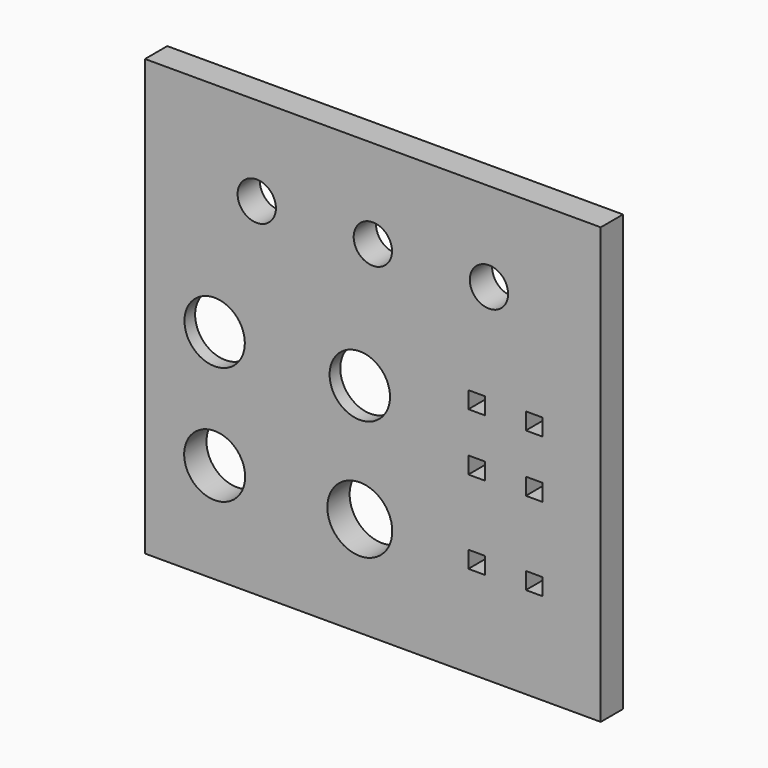
from build123d import *

# Parameters (mm, degrees)
F0_W     = 78.5
F0_H     = 75
F1_DEPTH = 4.8
F2_R     = 5.2
F2_R_2   = 5.25
F2_R_3   = 5.59
F2_R_4   = 3.3
F2_W     = 2.9
F2_H     = 2.9
F3_DEPTH = 4.801
F4_R     = 10
F5_DEPTH = 2.5
F6_R     = 2


with BuildPart() as f1:
    # F0 (on Front) → F1 (new body)
    with BuildSketch(Plane.XZ):
        Rectangle(F0_W, F0_H)
    extrude(amount=F1_DEPTH)

    # F2 (on face) → F3 (cut, through all)
    with BuildSketch(Plane.XZ.offset(4.8)):
        with Locations((-27.25, 0)):
            Circle(F2_R)
        with Locations((-27.25, -20.25)):
            Circle(F2_R_2)
        with Locations((-2.25, -20.25)):
            Circle(F2_R_3)
        with Locations((-2.25, 0)):
            Circle(F2_R)
        with Locations((0, 22.2)):
            Circle(F2_R_4)
        with Locations((-20, 22.2)):
            Circle(F2_R_4)
        with Locations((20, 22.2)):
            Circle(F2_R_4)
        with Locations((17.9, 3.948761)):
            Rectangle(F2_W, F2_H)
        with Locations((27.8, 3.948761)):
            Rectangle(F2_W, F2_H)
        with Locations((17.9, -5.951239)):
            Rectangle(F2_W, F2_H)
        with Locations((27.8, -5.951239)):
            Rectangle(F2_W, F2_H)
        with Locations((17.9, -20.25)):
            Rectangle(F2_W, F2_H)
        with Locations((27.8, -20.25)):
            Rectangle(F2_W, F2_H)
    extrude(amount=-F3_DEPTH, mode=Mode.SUBTRACT)

    # F4 (on face) → F5 (cut)
    with BuildSketch(Plane(origin=(0, 0, 0), x_dir=(-1, 0, 0), z_dir=(0, 1, 0))):
        with Locations((2.25, 0)):
            Circle(F4_R)
        with Locations((27.25, 0)):
            Circle(F4_R)
    extrude(amount=-F5_DEPTH, mode=Mode.SUBTRACT)

    # F6
    f6_edges = [f1.edges().sort_by_distance(p)[0] for p in [
        (7.75, -2.5, 0),
        (-17.25, -2.5, 0),
    ]]
    fillet(f6_edges, radius=F6_R)


solid = f1.part
